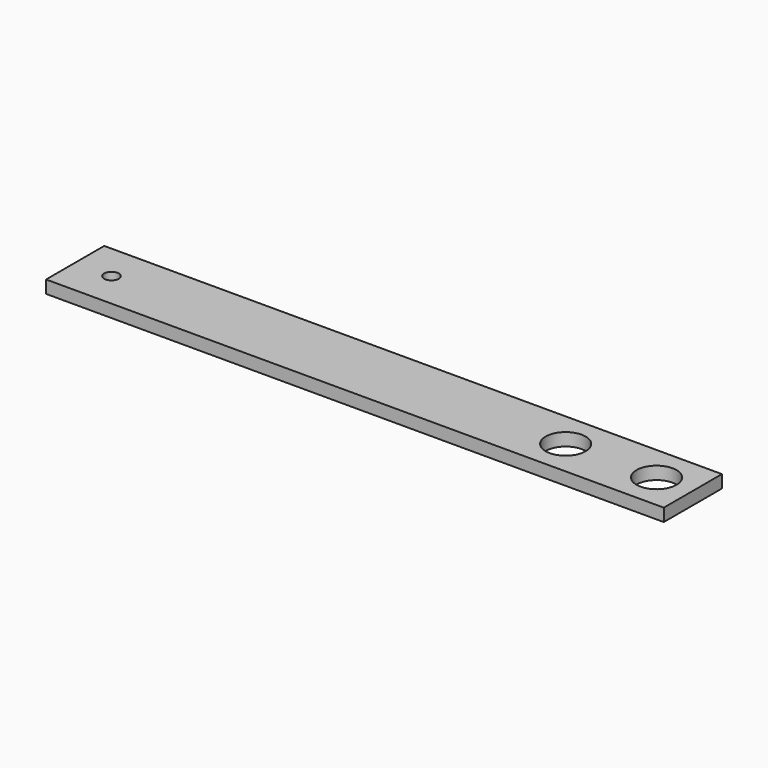
from build123d import *

# Parameters (mm, degrees)
SKETCH_W   = 340
SKETCH_H   = 40
SKETCH_R   = 11
SKETCH_R_2 = 4
PAD_DEPTH  = 7


with BuildPart() as part:
    # Sketch → Pad (new body)
    with BuildSketch(Plane.XY):
        with Locations((-100, 0)):
            Rectangle(SKETCH_W, SKETCH_H)
        Circle(SKETCH_R, mode=Mode.SUBTRACT)
        with Locations((50, 0)):
            Circle(SKETCH_R, mode=Mode.SUBTRACT)
        with Locations((-250, 0)):
            Circle(SKETCH_R_2, mode=Mode.SUBTRACT)
    extrude(amount=PAD_DEPTH)


solid = part.part
